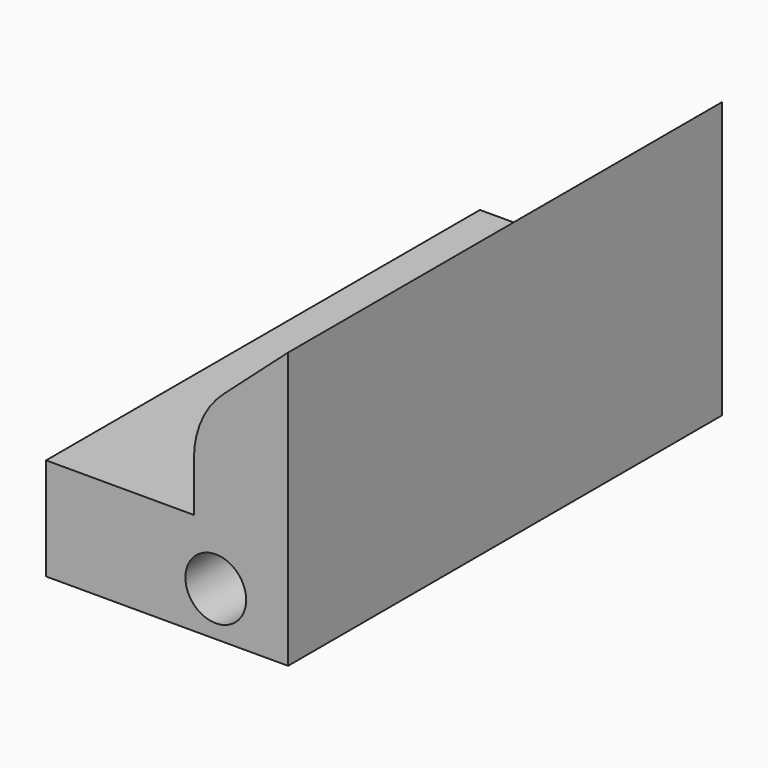
from build123d import *

# Parameters (mm, degrees)
F1_DEPTH = 77.216
F2_R     = 12.7
F3_R     = 4.324239
F4_DEPTH = 77.216


with BuildPart() as f1:
    # F0 (on Front) → F1 (new body)
    with BuildSketch(Plane.XZ):
        Polygon((0, 14.556793), (0, 0), (34.454569, 0), (34.454569, 39.271925), (21.049753, 27.33326), (21.049753, 14.556793), align=None)
    extrude(amount=F1_DEPTH)

    # F2
    f2_edges = [f1.edges().sort_by_distance(p)[0] for p in [
        (21.049753, -38.608, 27.33326),
    ]]
    fillet(f2_edges, radius=F2_R)

    # F3 (on face) → F4 (cut, through all)
    with BuildSketch(Plane.XZ.offset(77.216)):
        with Locations((24.158696, 6.31389)):
            Circle(F3_R)
    extrude(amount=-F4_DEPTH, mode=Mode.SUBTRACT)


solid = f1.part
